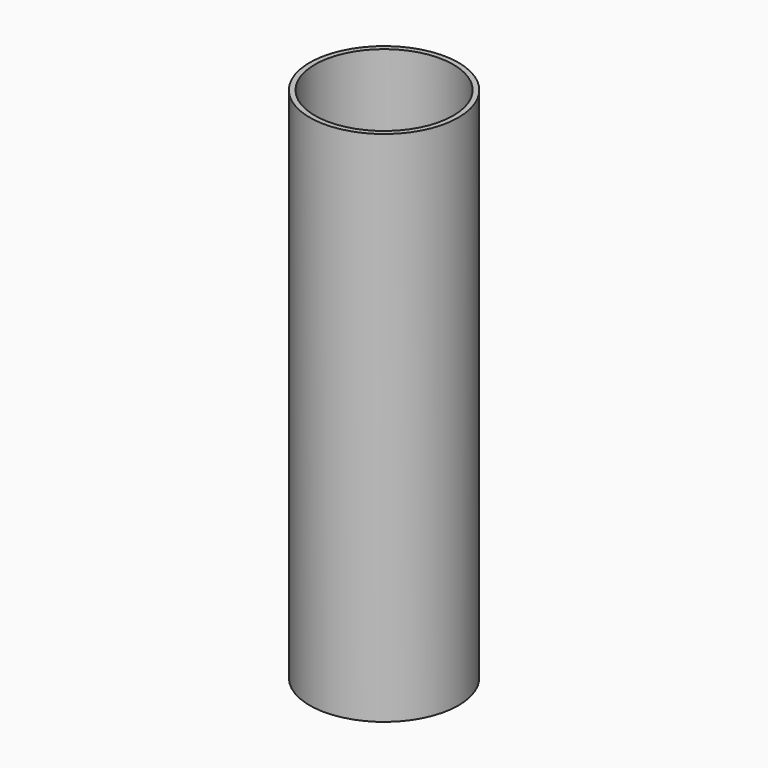
from build123d import *

# Parameters (mm, degrees)
F0_R     = 115
F2_DEPTH = 800
F1_R     = 107
F3_DEPTH = 800.001


with BuildPart() as f2:
    # F0 (on Top) → F2 (new body)
    with BuildSketch(Plane.XY):
        Circle(F0_R)
    extrude(amount=F2_DEPTH)

    # F1 (on Top) → F3 (cut, through all)
    with BuildSketch(Plane.XY):
        Circle(F1_R)
    extrude(amount=F3_DEPTH, mode=Mode.SUBTRACT)


solid = f2.part
